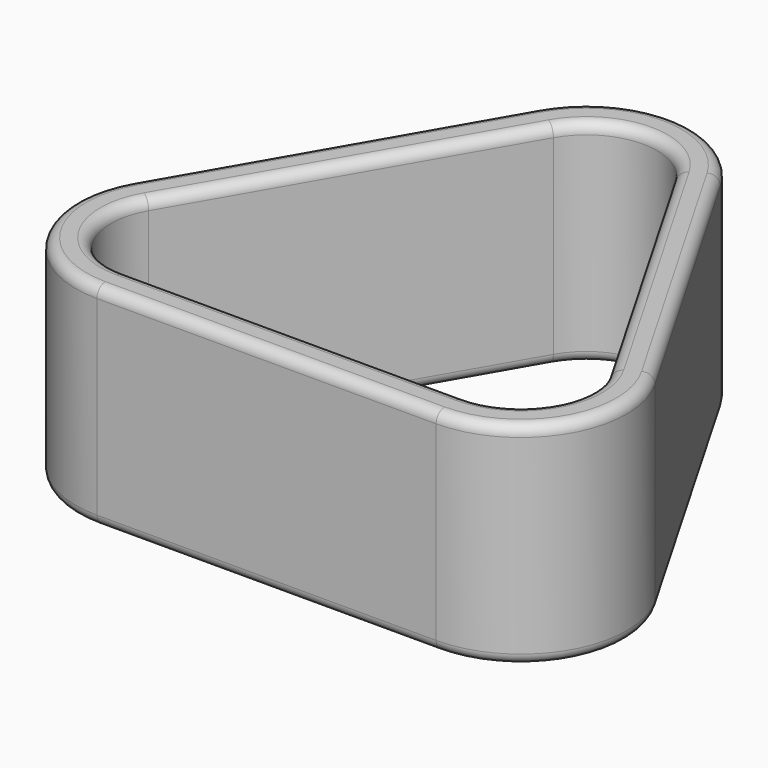
from build123d import *

# Parameters (mm, degrees)
F1_DEPTH = 30
F2_R     = 1.5


with BuildPart() as f1:
    # F0 (on Top) → F1 (new body)
    with BuildSketch(Plane.XY):
        with BuildLine():
            ThreePointArc((7.009619, 22.5), (7.009619, 7.5), (20, 0))
            Line((20, 0), (68.038476, 0))
            ThreePointArc((68.038476, 0), (81.028857, 7.5), (81.028857, 22.5))
            Line((81.028857, 22.5), (57.009619, 64.10254))
            ThreePointArc((57.009619, 64.10254), (44.019238, 71.60254), (31.028857, 64.10254))
            Line((31.028857, 64.10254), (7.009619, 22.5))
        make_face()
        with BuildLine():
            Line((11.339746, 20), (35.358984, 61.60254))
            ThreePointArc((35.358984, 61.60254), (44.019238, 66.60254), (52.679492, 61.60254))
            Line((52.679492, 61.60254), (76.69873, 20))
            ThreePointArc((76.69873, 20), (76.69873, 10), (68.038476, 5))
            Line((68.038476, 5), (20, 5))
            ThreePointArc((20, 5), (11.339746, 10), (11.339746, 20))
        make_face(mode=Mode.SUBTRACT)
    extrude(amount=F1_DEPTH)

    # F2
    f2_edges = [f1.edges().sort_by_distance(p)[0] for p in [
        (31.028857, 64.10254, 15),
        (7.009619, 22.5, 15),
        (19.019238, 43.30127, 0),
        (19.019238, 43.30127, 30),
        (11.339746, 20, 15),
        (35.358984, 61.60254, 15),
        (23.349365, 40.80127, 0),
        (23.349365, 40.80127, 30),
    ]]
    fillet(f2_edges, radius=F2_R)


solid = f1.part
